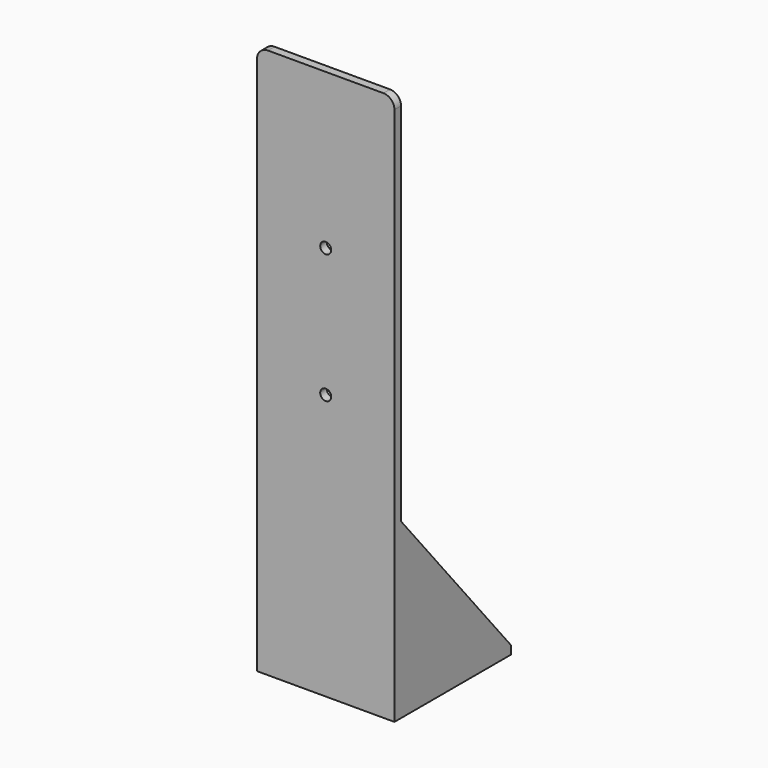
from build123d import *

# Parameters (mm, degrees)
F0_W      = 250
F0_H      = 1000
F1_DEPTH  = 15
F2_R      = 20
F3_R      = 20
F4_W      = 250
F4_H      = 15
F5_DEPTH  = 250
F7_DEPTH  = 15
F9_DEPTH  = 15
F10_R     = 14
F11_DEPTH = 15
F12_R     = 10
F13_DEPTH = 265.001


with BuildPart() as f1:
    # F0 (on Front) → F1 (new body)
    with BuildSketch(Plane.XZ):
        with Locations((125, 500)):
            Rectangle(F0_W, F0_H)
    extrude(amount=F1_DEPTH)

    # F2
    f2_edges = [f1.edges().sort_by_distance(p)[0] for p in [
        (0, -7.5, 1000),
    ]]
    fillet(f2_edges, radius=F2_R)

    # F3
    f3_edges = [f1.edges().sort_by_distance(p)[0] for p in [
        (250, -7.5, 1000),
    ]]
    fillet(f3_edges, radius=F3_R)

    # F4 (on face) → F5 (join)
    with BuildSketch(Plane(origin=(0, 0, 0), x_dir=(-1, 0, 0), z_dir=(0, 1, 0))):
        with Locations((-125, 7.5)):
            Rectangle(F4_W, F4_H)
    extrude(amount=F5_DEPTH)

    # F6 (on face) → F7 (join)
    with BuildSketch(Plane(origin=(0, 0, 0), x_dir=(0, -1, 0), z_dir=(-1, 0, 0))):
        Polygon((0, 315), (-250, 15), (0, 15), align=None)
    extrude(amount=-F7_DEPTH)

    # F8 (on face) → F9 (join)
    with BuildSketch(Plane.YZ.offset(250)):
        Polygon((0, 15), (250, 15), (0, 315), align=None)
    extrude(amount=-F9_DEPTH)

    # F10 (on face) → F11 (cut)
    with BuildSketch(Plane(origin=(0, 0, 0), x_dir=(1, 0, 0), z_dir=(0, 0, -1))):
        with Locations((125, -35)):
            Circle(F10_R)
        with Locations((195, -200)):
            Circle(F10_R)
        with Locations((55, -200)):
            Circle(F10_R)
    extrude(amount=-F11_DEPTH, mode=Mode.SUBTRACT)

    # F12 (on face) → F13 (cut, through all)
    with BuildSketch(Plane.XZ.offset(15)):
        with Locations((125, 718)):
            Circle(F12_R)
        with Locations((125, 483)):
            Circle(F12_R)
    extrude(amount=-F13_DEPTH, mode=Mode.SUBTRACT)


solid = f1.part
